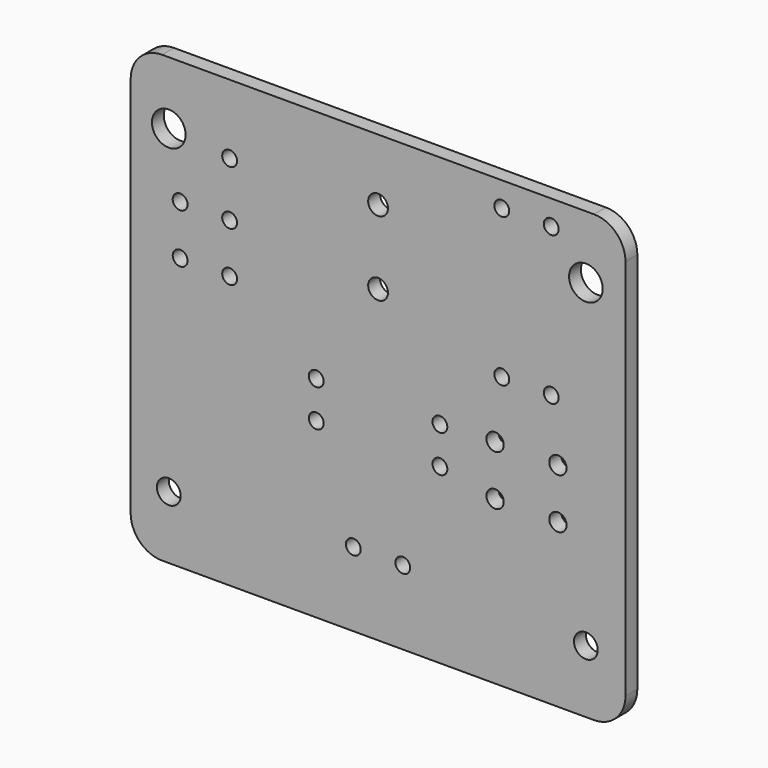
from build123d import *

# Parameters (mm, degrees)
F0_R     = 2.4
F0_R_2   = 1.5
F0_R_3   = 1.75
F0_R_4   = 3.4
F0_R_5   = 2
F1_DEPTH = 3


with BuildPart() as f1:
    # F0 (on Front) → F1 (new body)
    with BuildSketch(Plane.XZ):
        with BuildLine():
            Line((45.972619, -42.816667), (45.972619, 34.483333))
            ThreePointArc((45.972619, 34.483333), (44.112747, 38.973461), (39.622619, 40.833333))
            Line((39.622619, 40.833333), (-47.677381, 40.833333))
            ThreePointArc((-47.677381, 40.833333), (-52.167509, 38.973461), (-54.027381, 34.483333))
            Line((-54.027381, 34.483333), (-54.027381, -42.816667))
            ThreePointArc((-54.027381, -42.816667), (-52.167509, -47.306795), (-47.677381, -49.166667))
            Line((-47.677381, -49.166667), (39.622619, -49.166667))
            ThreePointArc((39.622619, -49.166667), (44.112747, -47.306795), (45.972619, -42.816667))
        make_face()
        with Locations((-46.327381, -36.466667)):
            Circle(F0_R, mode=Mode.SUBTRACT)
        with Locations((-9.027381, -34.166667)):
            Circle(F0_R_2, mode=Mode.SUBTRACT)
        with Locations((-16.527381, -14.166667)):
            Circle(F0_R_2, mode=Mode.SUBTRACT)
        with Locations((-16.527381, -6.666667)):
            Circle(F0_R_2, mode=Mode.SUBTRACT)
        with Locations((0.972619, -34.166667)):
            Circle(F0_R_2, mode=Mode.SUBTRACT)
        with Locations((37.972619, -36.466667)):
            Circle(F0_R, mode=Mode.SUBTRACT)
        with Locations((19.622619, -16.306667)):
            Circle(F0_R_3, mode=Mode.SUBTRACT)
        with Locations((8.472619, -14.166667)):
            Circle(F0_R_2, mode=Mode.SUBTRACT)
        with Locations((8.472619, -6.666667)):
            Circle(F0_R_2, mode=Mode.SUBTRACT)
        with Locations((19.622619, -6.166667)):
            Circle(F0_R_3, mode=Mode.SUBTRACT)
        with Locations((32.322619, -16.306667)):
            Circle(F0_R_3, mode=Mode.SUBTRACT)
        with Locations((32.322619, -6.166667)):
            Circle(F0_R_3, mode=Mode.SUBTRACT)
        with Locations((-44.027381, 5.833333)):
            Circle(F0_R_2, mode=Mode.SUBTRACT)
        with Locations((-34.027381, 5.833333)):
            Circle(F0_R_2, mode=Mode.SUBTRACT)
        with Locations((-44.027381, 15.833333)):
            Circle(F0_R_2, mode=Mode.SUBTRACT)
        with Locations((-34.027381, 15.833333)):
            Circle(F0_R_2, mode=Mode.SUBTRACT)
        with Locations((-46.327381, 28.133333)):
            Circle(F0_R_4, mode=Mode.SUBTRACT)
        with Locations((-34.027381, 26.833333)):
            Circle(F0_R_2, mode=Mode.SUBTRACT)
        with Locations((-4.027381, 13.333333)):
            Circle(F0_R_5, mode=Mode.SUBTRACT)
        with Locations((20.972619, 5.833333)):
            Circle(F0_R_2, mode=Mode.SUBTRACT)
        with Locations((30.972619, 5.833333)):
            Circle(F0_R_2, mode=Mode.SUBTRACT)
        with Locations((-4.027381, 28.333333)):
            Circle(F0_R_5, mode=Mode.SUBTRACT)
        with Locations((37.972619, 28.133333)):
            Circle(F0_R_4, mode=Mode.SUBTRACT)
        with Locations((20.972619, 35.833333)):
            Circle(F0_R_2, mode=Mode.SUBTRACT)
        with Locations((30.972619, 35.833333)):
            Circle(F0_R_2, mode=Mode.SUBTRACT)
    extrude(amount=F1_DEPTH)


solid = f1.part
